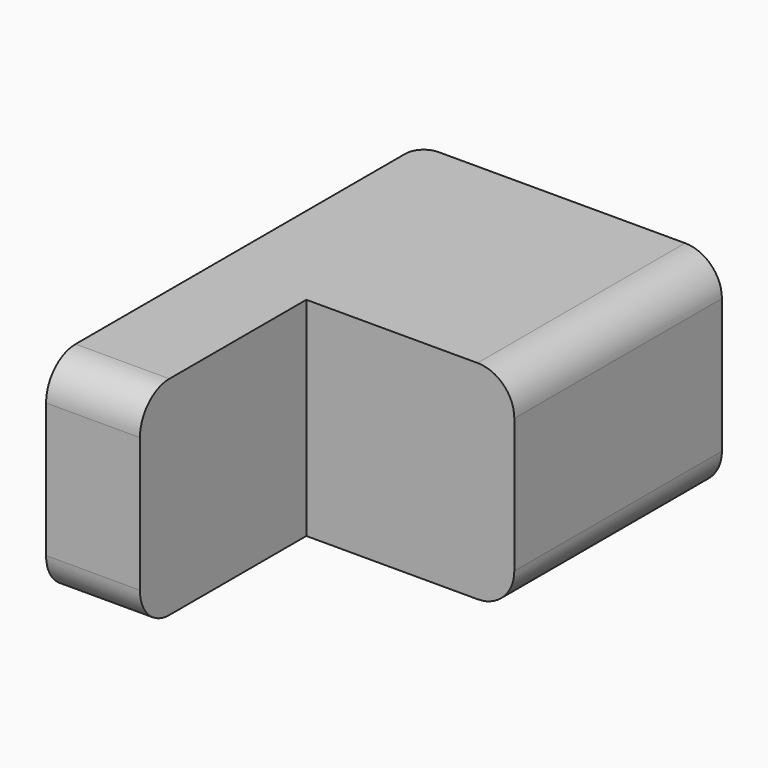
from build123d import *

# Parameters (mm, degrees)
F0_W     = 16.4
F0_H     = 25.4
F1_DEPTH = 11.3
F2_W     = 11.3
F2_H     = 11.3
F3_DEPTH = 25
F4_R     = 2
F5_R     = 1


with BuildPart() as f1:
    # F0 (on Top) → F1 (new body)
    with BuildSketch(Plane.XY):
        with Locations((8.2, 12.7)):
            Rectangle(F0_W, F0_H)
    extrude(amount=F1_DEPTH)

    # F2 (on face) → F3 (cut)
    with BuildSketch(Plane.XY.offset(11.3)):
        with Locations((10.75, 5.65)):
            Rectangle(F2_W, F2_H)
    extrude(amount=-F3_DEPTH, mode=Mode.SUBTRACT)

    # F4
    f4_edges = [f1.edges().sort_by_distance(p)[0] for p in [
        (16.4, 18.35, 0),
        (2.55, 0, 0),
        (2.55, 0, 11.3),
        (16.4, 18.35, 11.3),
    ]]
    fillet(f4_edges, radius=F4_R)

    # F5
    f5_edges = [f1.edges().sort_by_distance(p)[0] for p in [
        (0, 25.4, 5.65),
    ]]
    fillet(f5_edges, radius=F5_R)


solid = f1.part
